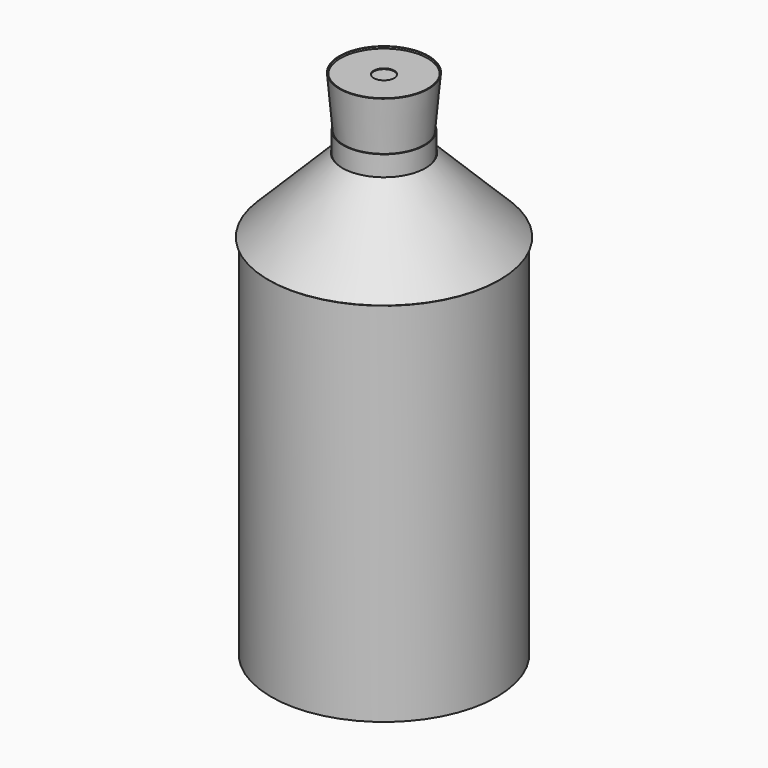
from build123d import *

# Parameters (mm, degrees)
F0_R      = 139.7
F1_DEPTH  = 1.016
F2_R      = 140.716
F2_R_2    = 139.7
F3_DEPTH  = 457.2
F6_W      = 1.016
F6_H      = 25.4
F12_R     = 54.008048
F12_R_2   = 12.7
F13_DEPTH = 1.016
F15_ANGLE = 10


with BuildPart() as f1:
    # F0 (on Top) → F1 (new body)
    with BuildSketch(Plane.XY):
        Circle(F0_R)
    extrude(amount=-F1_DEPTH)


with BuildPart() as f3:
    # F2 (on face) → F3 (new body)
    with BuildSketch(Plane.XY):
        Circle(F2_R)
        Circle(F2_R_2, mode=Mode.SUBTRACT)
    extrude(amount=F3_DEPTH)


with BuildPart() as f5:
    # F4 (on Front) → F5 (revolve)
    with BuildSketch(Plane.XZ):
        Polygon((-143.59342, 455.75942), (-142.875, 455.041), (-50.8, 547.116), (-51.51842, 547.83442), align=None)
    revolve(axis=Axis((0, 0, 296.564102), (0, 0, 1)))


with BuildPart() as f7:
    # F6 (on Front) → F7 (revolve)
    with BuildSketch(Plane.XZ):
        with Locations((-50.292, 559.816)):
            Rectangle(F6_W, F6_H)
    revolve(axis=Axis((0, 0, 315.481633), (0, 0, 1)))


with BuildPart() as f9:
    # F8 (on Front) → F9 (revolve)
    with BuildSketch(Plane.XZ):
        Polygon((-54.285824, 635.629381), (-55.297958, 635.540831), (-46.442935, 534.32745), (-45.430801, 534.416), align=None)
    revolve(axis=Axis((0, 0, 317.814691), (0, 0, 1)))


with BuildPart() as f13:
    # F12 (on offset) → F13 (new body)
    with BuildSketch(Plane.XY.offset(632.454381)):
        Circle(F12_R)
        Circle(F12_R_2, mode=Mode.SUBTRACT)
    extrude(amount=F13_DEPTH)


with BuildPart() as f15:
    # F14 (on Front) → F15 (revolve, symmetric)
    with BuildSketch(Plane.XZ) as f15_sk:
        Polygon((-52.720252, 629.392095), (-53.732385, 629.303545), (-45.430801, 534.416), (-44.418667, 534.50455), align=None)
    revolve(axis=Axis((0, 0, 347.863972), (0, 0, 1)), revolution_arc=F15_ANGLE / 2)
    revolve(f15_sk.sketch, axis=Axis((0, 0, 347.863972), (0, 0, -1)), revolution_arc=F15_ANGLE / 2)


solid = Compound([f1.part, f3.part, f5.part, f7.part, f9.part, f13.part, f15.part])
